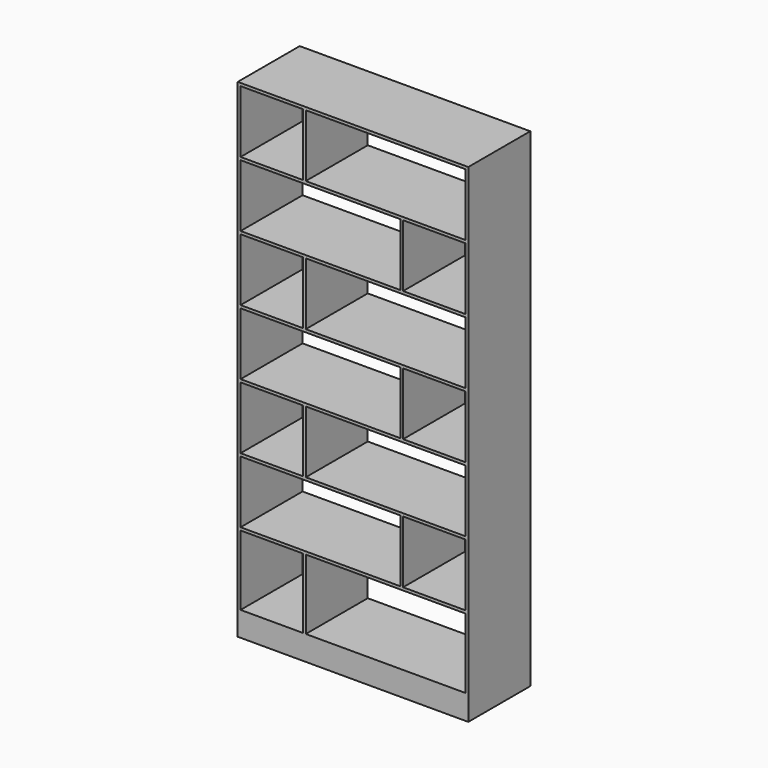
from build123d import *

# Parameters (mm, degrees)
F0_W     = 1220
F0_H     = 2585
F0_W_2   = 330
F0_H_2   = 370
F0_H_3   = 330
F0_W_3   = 845
F1_DEPTH = 410


with BuildPart() as f1:
    # F0 (on Front) → F1 (new body)
    with BuildSketch(Plane.XZ):
        with Locations((610, 1292.5)):
            Rectangle(F0_W, F0_H)
        with Locations((180, 315)):
            Rectangle(F0_W_2, F0_H_2, mode=Mode.SUBTRACT)
        with Locations((180, 1025)):
            Rectangle(F0_W_2, F0_H_3, mode=Mode.SUBTRACT)
        with Locations((437.5, 680)):
            Rectangle(F0_W_3, F0_H_3, mode=Mode.SUBTRACT)
        with Locations((782.5, 315)):
            Rectangle(F0_W_3, F0_H_2, mode=Mode.SUBTRACT)
        with Locations((782.5, 1025)):
            Rectangle(F0_W_3, F0_H_3, mode=Mode.SUBTRACT)
        with Locations((1040, 680)):
            Rectangle(F0_W_2, F0_H_3, mode=Mode.SUBTRACT)
        with Locations((180, 1715)):
            Rectangle(F0_W_2, F0_H_3, mode=Mode.SUBTRACT)
        with Locations((437.5, 1370)):
            Rectangle(F0_W_3, F0_H_3, mode=Mode.SUBTRACT)
        with Locations((180, 2405)):
            Rectangle(F0_W_2, F0_H_3, mode=Mode.SUBTRACT)
        with Locations((437.5, 2060)):
            Rectangle(F0_W_3, F0_H_3, mode=Mode.SUBTRACT)
        with Locations((782.5, 1715)):
            Rectangle(F0_W_3, F0_H_3, mode=Mode.SUBTRACT)
        with Locations((1040, 1370)):
            Rectangle(F0_W_2, F0_H_3, mode=Mode.SUBTRACT)
        with Locations((782.5, 2405)):
            Rectangle(F0_W_3, F0_H_3, mode=Mode.SUBTRACT)
        with Locations((1040, 2060)):
            Rectangle(F0_W_2, F0_H_3, mode=Mode.SUBTRACT)
    extrude(amount=F1_DEPTH)


solid = f1.part
